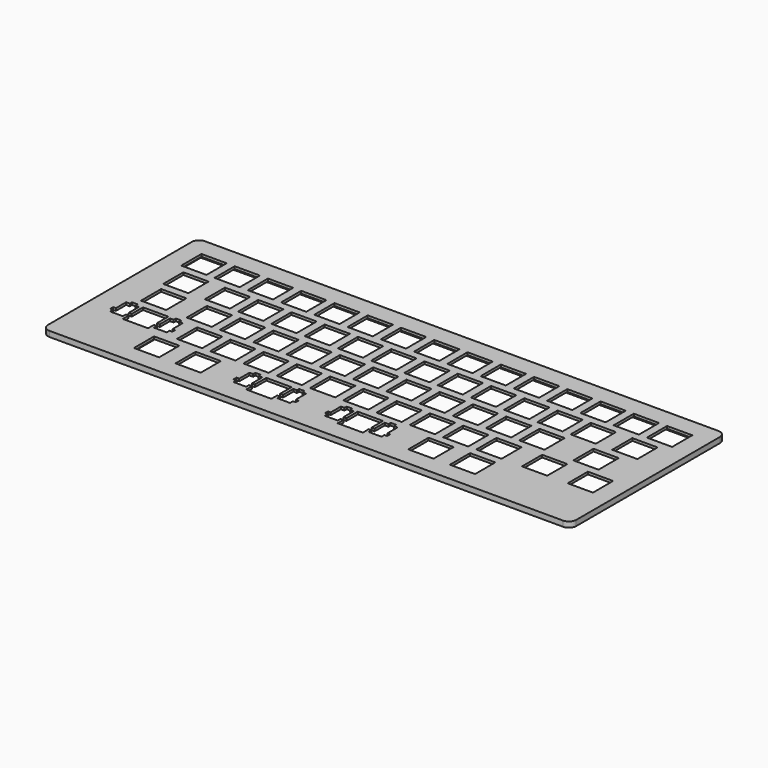
from build123d import *

# Parameters (mm, degrees)
F0_W     = 289
F0_H     = 106.25
F0_W_2   = 13.8
F0_H_2   = 13.8
F1_DEPTH = 3
F3_DEPTH = 1.65
F4_R     = 4


with BuildPart() as f1:
    # F0 (on Top) → F1 (new body)
    with BuildSketch(Plane.XY):
        with Locations((64.012197, -54.573405)):
            Rectangle(F0_W, F0_H)
        with Locations((-31.537803, -90.673405)):
            Rectangle(F0_W_2, F0_H_2, mode=Mode.SUBTRACT)
        with Locations((-8.787803, -90.673405)):
            Rectangle(F0_W_2, F0_H_2, mode=Mode.SUBTRACT)
        Polygon((36.787197, -93.573405), (36.787197, -97.573405), (22.987197, -97.573405), (22.987197, -93.573405), (21.387197, -93.573405), (21.387197, -95.573405), (14.387197, -95.573405), (14.387197, -93.573405), (12.887197, -93.573405), (12.887197, -91.573405), (14.387197, -91.573405), (14.387197, -84.573405), (16.387197, -84.573405), (16.387197, -83.073405), (19.387197, -83.073405), (19.387197, -84.573405), (21.387197, -84.573405), (21.387197, -91.573405), (22.987197, -91.573405), (22.987197, -83.773405), (36.787197, -83.773405), (36.787197, -91.573405), (38.387197, -91.573405), (38.387197, -84.573405), (40.387197, -84.573405), (40.387197, -83.073405), (43.387197, -83.073405), (43.387197, -84.573405), (45.387197, -84.573405), (45.387197, -91.573405), (46.887197, -91.573405), (46.887197, -93.573405), (45.387197, -93.573405), (45.387197, -95.573405), (38.387197, -95.573405), (38.387197, -93.573405), align=None, mode=Mode.SUBTRACT)
        Polygon((-58.912803, -65.723405), (-45.112803, -65.723405), (-45.112803, -73.523405), (-43.512803, -73.523405), (-43.512803, -66.523405), (-41.512803, -66.523405), (-41.512803, -65.023405), (-38.512803, -65.023405), (-38.512803, -66.523405), (-36.512803, -66.523405), (-36.512803, -73.523405), (-35.012803, -73.523405), (-35.012803, -75.523405), (-36.512803, -75.523405), (-36.512803, -77.523405), (-43.512803, -77.523405), (-43.512803, -75.523405), (-45.112803, -75.523405), (-45.112803, -79.523405), (-58.912803, -79.523405), (-58.912803, -75.523405), (-60.512803, -75.523405), (-60.512803, -77.523405), (-67.512803, -77.523405), (-67.512803, -75.523405), (-69.012803, -75.523405), (-69.012803, -73.523405), (-67.512803, -73.523405), (-67.512803, -66.523405), (-65.512803, -66.523405), (-65.512803, -65.023405), (-62.512803, -65.023405), (-62.512803, -66.523405), (-60.512803, -66.523405), (-60.512803, -73.523405), (-58.912803, -73.523405), align=None, mode=Mode.SUBTRACT)
        with Locations((-22.437803, -72.623405)):
            Rectangle(F0_W_2, F0_H_2, mode=Mode.SUBTRACT)
        with Locations((-4.237803, -72.623405)):
            Rectangle(F0_W_2, F0_H_2, mode=Mode.SUBTRACT)
        with Locations((13.962197, -72.623405)):
            Rectangle(F0_W_2, F0_H_2, mode=Mode.SUBTRACT)
        with Locations((32.162197, -72.623405)):
            Rectangle(F0_W_2, F0_H_2, mode=Mode.SUBTRACT)
        with Locations((50.362197, -72.623405)):
            Rectangle(F0_W_2, F0_H_2, mode=Mode.SUBTRACT)
        Polygon((86.837197, -93.573405), (86.837197, -97.573405), (73.037197, -97.573405), (73.037197, -93.573405), (71.437197, -93.573405), (71.437197, -95.573405), (64.437197, -95.573405), (64.437197, -93.573405), (62.937197, -93.573405), (62.937197, -91.573405), (64.437197, -91.573405), (64.437197, -84.573405), (66.437197, -84.573405), (66.437197, -83.073405), (69.437197, -83.073405), (69.437197, -84.573405), (71.437197, -84.573405), (71.437197, -91.573405), (73.037197, -91.573405), (73.037197, -83.773405), (86.837197, -83.773405), (86.837197, -91.573405), (88.437197, -91.573405), (88.437197, -84.573405), (90.437197, -84.573405), (90.437197, -83.073405), (93.437197, -83.073405), (93.437197, -84.573405), (95.437197, -84.573405), (95.437197, -91.573405), (96.937197, -91.573405), (96.937197, -93.573405), (95.437197, -93.573405), (95.437197, -95.573405), (88.437197, -95.573405), (88.437197, -93.573405), align=None, mode=Mode.SUBTRACT)
        with Locations((118.612197, -90.673405)):
            Rectangle(F0_W_2, F0_H_2, mode=Mode.SUBTRACT)
        with Locations((141.362197, -90.673405)):
            Rectangle(F0_W_2, F0_H_2, mode=Mode.SUBTRACT)
        with Locations((68.562197, -72.623405)):
            Rectangle(F0_W_2, F0_H_2, mode=Mode.SUBTRACT)
        with Locations((86.762197, -72.623405)):
            Rectangle(F0_W_2, F0_H_2, mode=Mode.SUBTRACT)
        with Locations((104.962197, -72.623405)):
            Rectangle(F0_W_2, F0_H_2, mode=Mode.SUBTRACT)
        with Locations((123.162197, -72.623405)):
            Rectangle(F0_W_2, F0_H_2, mode=Mode.SUBTRACT)
        with Locations((141.362197, -72.623405)):
            Rectangle(F0_W_2, F0_H_2, mode=Mode.SUBTRACT)
        with Locations((166.387197, -72.623405)):
            Rectangle(F0_W_2, F0_H_2, mode=Mode.SUBTRACT)
        with Locations((191.412197, -72.623405)):
            Rectangle(F0_W_2, F0_H_2, mode=Mode.SUBTRACT)
        with Locations((-56.562803, -54.573405)):
            Rectangle(F0_W_2, F0_H_2, mode=Mode.SUBTRACT)
        with Locations((-31.537803, -54.573405)):
            Rectangle(F0_W_2, F0_H_2, mode=Mode.SUBTRACT)
        with Locations((-13.337803, -54.573405)):
            Rectangle(F0_W_2, F0_H_2, mode=Mode.SUBTRACT)
        with Locations((-58.837803, -36.523405)):
            Rectangle(F0_W_2, F0_H_2, mode=Mode.SUBTRACT)
        with Locations((-36.087803, -36.523405)):
            Rectangle(F0_W_2, F0_H_2, mode=Mode.SUBTRACT)
        with Locations((-17.887803, -36.523405)):
            Rectangle(F0_W_2, F0_H_2, mode=Mode.SUBTRACT)
        with Locations((4.862197, -54.573405)):
            Rectangle(F0_W_2, F0_H_2, mode=Mode.SUBTRACT)
        with Locations((23.062197, -54.573405)):
            Rectangle(F0_W_2, F0_H_2, mode=Mode.SUBTRACT)
        with Locations((41.262197, -54.573405)):
            Rectangle(F0_W_2, F0_H_2, mode=Mode.SUBTRACT)
        with Locations((59.462197, -54.573405)):
            Rectangle(F0_W_2, F0_H_2, mode=Mode.SUBTRACT)
        with Locations((0.312197, -36.523405)):
            Rectangle(F0_W_2, F0_H_2, mode=Mode.SUBTRACT)
        with Locations((18.512197, -36.523405)):
            Rectangle(F0_W_2, F0_H_2, mode=Mode.SUBTRACT)
        with Locations((36.712197, -36.523405)):
            Rectangle(F0_W_2, F0_H_2, mode=Mode.SUBTRACT)
        with Locations((54.912197, -36.523405)):
            Rectangle(F0_W_2, F0_H_2, mode=Mode.SUBTRACT)
        with Locations((-63.387803, -18.473405)):
            Rectangle(F0_W_2, F0_H_2, mode=Mode.SUBTRACT)
        with Locations((-45.187803, -18.473405)):
            Rectangle(F0_W_2, F0_H_2, mode=Mode.SUBTRACT)
        with Locations((-26.987803, -18.473405)):
            Rectangle(F0_W_2, F0_H_2, mode=Mode.SUBTRACT)
        with Locations((-8.787803, -18.473405)):
            Rectangle(F0_W_2, F0_H_2, mode=Mode.SUBTRACT)
        with Locations((9.412197, -18.473405)):
            Rectangle(F0_W_2, F0_H_2, mode=Mode.SUBTRACT)
        with Locations((27.612197, -18.473405)):
            Rectangle(F0_W_2, F0_H_2, mode=Mode.SUBTRACT)
        with Locations((45.812197, -18.473405)):
            Rectangle(F0_W_2, F0_H_2, mode=Mode.SUBTRACT)
        with Locations((64.012197, -18.473405)):
            Rectangle(F0_W_2, F0_H_2, mode=Mode.SUBTRACT)
        with Locations((77.662197, -54.573405)):
            Rectangle(F0_W_2, F0_H_2, mode=Mode.SUBTRACT)
        with Locations((95.862197, -54.573405)):
            Rectangle(F0_W_2, F0_H_2, mode=Mode.SUBTRACT)
        with Locations((114.062197, -54.573405)):
            Rectangle(F0_W_2, F0_H_2, mode=Mode.SUBTRACT)
        with Locations((132.262197, -54.573405)):
            Rectangle(F0_W_2, F0_H_2, mode=Mode.SUBTRACT)
        with Locations((73.112197, -36.523405)):
            Rectangle(F0_W_2, F0_H_2, mode=Mode.SUBTRACT)
        with Locations((91.312197, -36.523405)):
            Rectangle(F0_W_2, F0_H_2, mode=Mode.SUBTRACT)
        with Locations((109.512197, -36.523405)):
            Rectangle(F0_W_2, F0_H_2, mode=Mode.SUBTRACT)
        with Locations((127.712197, -36.523405)):
            Rectangle(F0_W_2, F0_H_2, mode=Mode.SUBTRACT)
        with Locations((150.462197, -54.573405)):
            Rectangle(F0_W_2, F0_H_2, mode=Mode.SUBTRACT)
        with Locations((180.037197, -54.573405)):
            Rectangle(F0_W_2, F0_H_2, mode=Mode.SUBTRACT)
        with Locations((145.912197, -36.523405)):
            Rectangle(F0_W_2, F0_H_2, mode=Mode.SUBTRACT)
        with Locations((164.112197, -36.523405)):
            Rectangle(F0_W_2, F0_H_2, mode=Mode.SUBTRACT)
        with Locations((186.862197, -36.523405)):
            Rectangle(F0_W_2, F0_H_2, mode=Mode.SUBTRACT)
        with Locations((82.212197, -18.473405)):
            Rectangle(F0_W_2, F0_H_2, mode=Mode.SUBTRACT)
        with Locations((100.412197, -18.473405)):
            Rectangle(F0_W_2, F0_H_2, mode=Mode.SUBTRACT)
        with Locations((118.612197, -18.473405)):
            Rectangle(F0_W_2, F0_H_2, mode=Mode.SUBTRACT)
        with Locations((136.812197, -18.473405)):
            Rectangle(F0_W_2, F0_H_2, mode=Mode.SUBTRACT)
        with Locations((155.012197, -18.473405)):
            Rectangle(F0_W_2, F0_H_2, mode=Mode.SUBTRACT)
        with Locations((173.212197, -18.473405)):
            Rectangle(F0_W_2, F0_H_2, mode=Mode.SUBTRACT)
        with Locations((191.412197, -18.473405)):
            Rectangle(F0_W_2, F0_H_2, mode=Mode.SUBTRACT)
    extrude(amount=-F1_DEPTH)

    # F2 (on face) → F3 (cut)
    with BuildSketch(Plane(origin=(0, 0, -3), x_dir=(1, 0, 0), z_dir=(0, 0, -1))):
        Polygon((149.862197, 99.173405), (-40.037803, 99.173405), (-40.037803, 82.173405), (-71.887803, 82.173405), (-71.887803, 9.973405), (199.912197, 9.973405), (199.912197, 82.173405), (149.862197, 82.173405), align=None)
    extrude(amount=-F3_DEPTH, mode=Mode.SUBTRACT)

    # F4
    f4_edges = [f1.edges().sort_by_distance(p)[0] for p in [
        (-80.487803, -107.698405, -1.5),
        (-80.487803, -1.448405, -1.5),
        (208.512197, -107.698405, -1.5),
        (208.512197, -1.448405, -1.5),
    ]]
    fillet(f4_edges, radius=F4_R)


solid = f1.part
